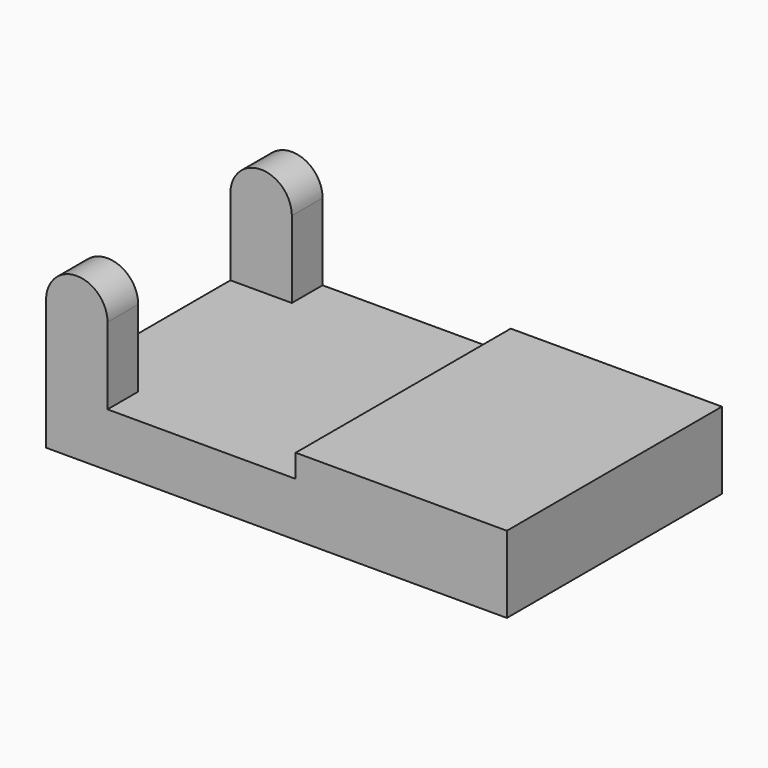
from build123d import *

# Parameters (mm, degrees)
F0_W     = 120
F0_H     = 70
F1_DEPTH = 20
F2_W     = 65
F2_H     = 6
F3_DEPTH = 100
F5_DEPTH = 10
F7_DEPTH = 10


with BuildPart() as f1:
    # F0 (on Top) → F1 (new body)
    with BuildSketch(Plane.XY):
        Rectangle(F0_W, F0_H)
    extrude(amount=F1_DEPTH)

    # F2 (on face) → F3 (cut)
    with BuildSketch(Plane.XZ.offset(35)):
        with Locations((-27.5, 17)):
            Rectangle(F2_W, F2_H)
    extrude(amount=-F3_DEPTH, mode=Mode.SUBTRACT)

    # F4 (on face) → F5 (join)
    with BuildSketch(Plane.XZ.offset(35)):
        with BuildLine():
            ThreePointArc((-44, 34), (-52, 42), (-60, 34))
            Line((-60, 34), (-44, 34))
        make_face()
        with BuildLine():
            Line((-44, 34), (-60, 34))
            ThreePointArc((-60, 34), (-52, 26), (-44, 34))
        make_face()
        with BuildLine():
            Line((-60, 34), (-60, 14))
            Line((-60, 14), (-44, 14))
            Line((-44, 14), (-44, 34))
            ThreePointArc((-44, 34), (-52, 26), (-60, 34))
        make_face()
    extrude(amount=-F5_DEPTH)

    # F6 (on face) → F7 (join)
    with BuildSketch(Plane(origin=(0, 35, 0), x_dir=(-1, 0, 0), z_dir=(0, 1, 0))):
        with BuildLine():
            Line((44, 14), (60, 14))
            Line((60, 14), (60, 34))
            ThreePointArc((60, 34), (52, 26), (44, 34))
            Line((44, 34), (44, 14))
        make_face()
        with BuildLine():
            ThreePointArc((44, 34), (52, 26), (60, 34))
            Line((60, 34), (44, 34))
        make_face()
        with BuildLine():
            Line((44, 34), (60, 34))
            ThreePointArc((60, 34), (52, 42), (44, 34))
        make_face()
        with BuildLine():
            Line((44, 34), (60, 34))
            ThreePointArc((60, 34), (52, 42), (44, 34))
        make_face()
    extrude(amount=-F7_DEPTH)


solid = f1.part
